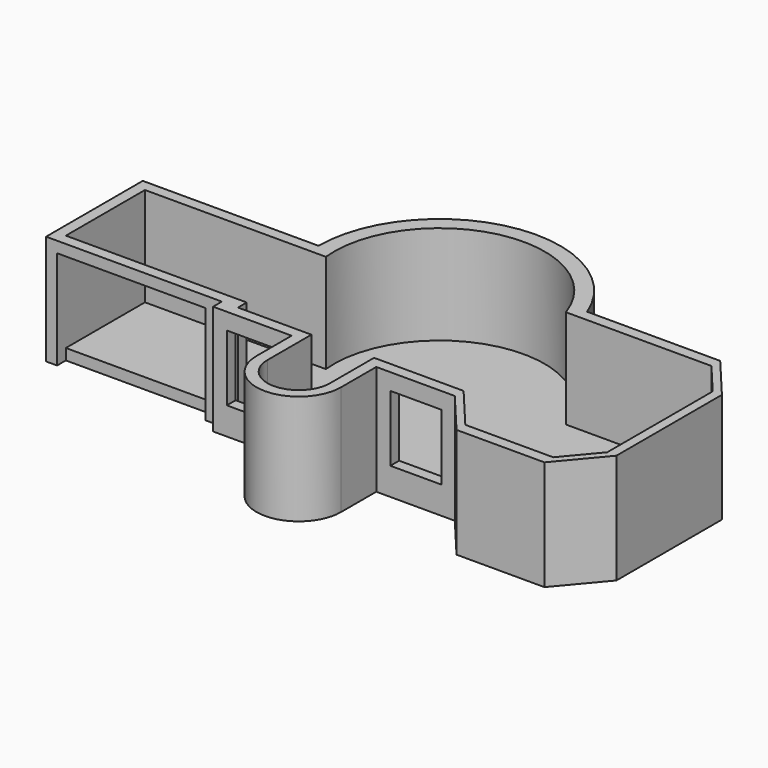
from build123d import *

# Parameters (mm, degrees)
F1_DEPTH = 254
F3_DEPTH = 228.6
F5_W     = 118.080845
F5_H     = 152.4
F4_W     = 342.9
F4_H     = 228.6
F6_DEPTH = 25.4


with BuildPart() as f1:
    # F0 (on Top) → F1 (new body)
    with BuildSketch(Plane.XY):
        with BuildLine():
            Line((97.819155, -152.4), (279.4, -152.4))
            Line((279.4, -152.4), (364.652523, -254))
            Line((364.652523, -254), (567.852523, -254))
            Line((567.852523, -254), (653.105045, -152.4))
            Line((653.105045, -152.4), (653.105045, 152.4))
            Line((653.105045, 152.4), (567.852523, 254))
            Line((567.852523, 254), (260.272549, 254))
            ThreePointArc((260.272549, 254), (-51.692406, 426.976501), (-279.4, 152.4))
            Line((-279.4, 152.4), (-685.8, 152.4))
            Line((-685.8, 152.4), (-685.8, -127))
            Line((-685.8, -127), (-279.4, -127))
            Line((-279.4, -127), (-279.4, -152.4))
            Line((-279.4, -152.4), (-97.819155, -152.4))
            Line((-97.819155, -152.4), (-97.819155, -254))
            ThreePointArc((-97.819155, -254), (0, -351.819155), (97.819155, -254))
            Line((97.819155, -254), (97.819155, -152.4))
        make_face()
    extrude(amount=F1_DEPTH)

    # F2 (on face) → F3 (cut)
    with BuildSketch(Plane.XY.offset(254)):
        with BuildLine():
            Line((72.419155, -127), (242.20781, -127))
            Line((242.20781, -127), (279.4, -127))
            Line((279.4, -127), (364.652523, -228.6))
            Line((364.652523, -228.6), (567.852523, -228.6))
            Line((567.852523, -228.6), (631.791914, -152.4))
            Line((631.791914, -152.4), (631.791914, 152.4))
            Line((631.791914, 152.4), (567.852523, 228.6))
            Line((567.852523, 228.6), (231.307897, 228.6))
            ThreePointArc((231.307897, 228.6), (-51.091506, 390.516445), (-242.20781, 127))
            Line((-242.20781, 127), (-660.4, 127))
            Line((-660.4, 127), (-660.4, -101.6))
            Line((-660.4, -101.6), (-242.20781, -101.6))
            Line((-242.20781, -101.6), (-242.20781, -127))
            Line((-242.20781, -127), (-72.419155, -127))
            Line((-72.419155, -127), (-72.419155, -254))
            ThreePointArc((-72.419155, -254), (0, -326.419155), (72.419155, -254))
            Line((72.419155, -254), (72.419155, -127))
        make_face()
    extrude(amount=-F3_DEPTH, mode=Mode.SUBTRACT)

    # F5 (on face) + F4 (on face) → F6 (cut)
    with BuildSketch(Plane.XZ.offset(152.4)):
        with Locations((-188.609578, 139.7)):
            Rectangle(F5_W, F5_H)
        with Locations((189.446623, 139.7)):
            Rectangle(F5_W, F5_H)
    with BuildSketch(Plane.XZ.offset(127)):
        with Locations((-488.95, 114.3)):
            Rectangle(F4_W, F4_H)
    extrude(amount=-F6_DEPTH, mode=Mode.SUBTRACT)


solid = f1.part
